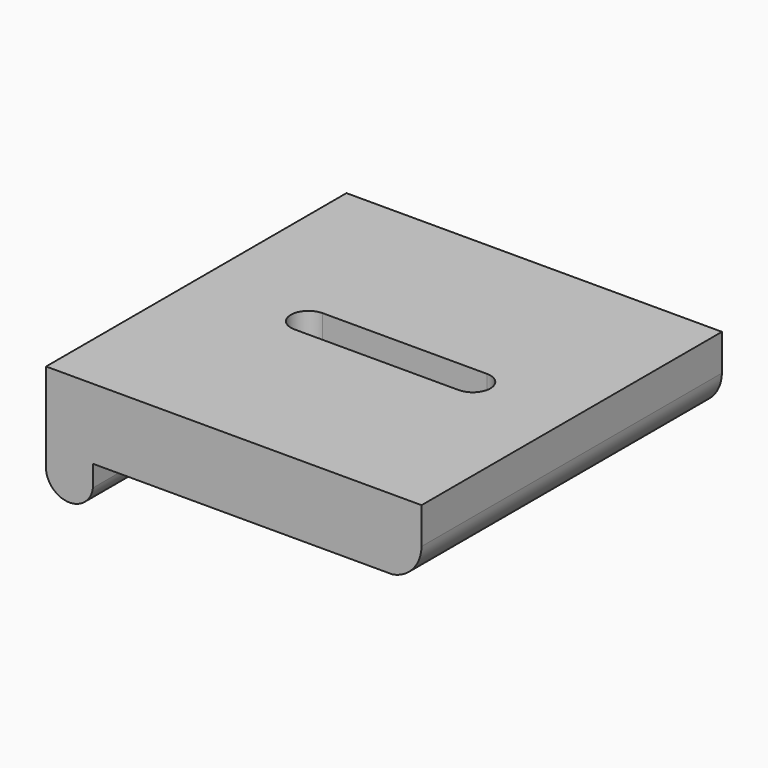
from build123d import *

# Parameters (mm, degrees)
F0_W     = 101.6
F0_H     = 101.6
F1_DEPTH = 19.05
F2_W     = 12.7
F2_H     = 101.6
F3_DEPTH = 11.43
F5_DEPTH = 101.601
F6_DEPTH = 101.601


with BuildPart() as f1:
    # F0 (on Top) → F1 (new body)
    with BuildSketch(Plane.XY):
        with Locations((-50.5425002087, 14.2971096218)):
            Rectangle(F0_W, F0_H)
        with BuildLine():
            ThreePointArc((-70.9710493684, 9.5346096218), (-75.7335493684, 14.2971096218), (-70.9710493684, 19.0596096218))
            Line((-70.9710493684, 19.0596096218), (-26.5210493684, 19.0596096218))
            ThreePointArc((-26.5210493684, 19.0596096218), (-21.7585493684, 14.2971096218), (-26.5210493684, 9.5346096218))
            Line((-26.5210493684, 9.5346096218), (-70.9710493684, 9.5346096218))
        make_face(mode=Mode.SUBTRACT)
    extrude(amount=F1_DEPTH)

    # F2 (on face) → F3 (join)
    with BuildSketch(Plane(origin=(0, 0, 0), x_dir=(1, 0, 0), z_dir=(0, 0, -1))):
        with Locations((-94.9925002087, -14.2971096218)):
            Rectangle(F2_W, F2_H)
    extrude(amount=F3_DEPTH)

    # F4 (on face) → F5 (cut, through all)
    with BuildSketch(Plane.XZ.offset(36.5028903782)):
        with BuildLine():
            ThreePointArc((0.2574997913, 9.2125750211), (-1.9847896018, 3.2247694582), (-7.5058890507, 0))
            Line((-7.5058890507, 0), (0.2574997913, 0))
            Line((0.2574997913, 0), (0.2574997913, 9.2125750211))
        make_face()
    extrude(amount=-F5_DEPTH, mode=Mode.SUBTRACT)

    # F4 (on face) → F6 (cut, through all)
    with BuildSketch(Plane.XZ.offset(36.5028903782)):
        with BuildLine():
            Line((-88.6425002087, -11.43), (-88.6425002087, -5.715))
            ThreePointArc((-88.6425002087, -5.715), (-95.0047463509, -11.2975338614), (-101.3425002087, -5.6872097775))
            Line((-101.3425002087, -5.6872097775), (-101.3425002087, -11.43))
            Line((-101.3425002087, -11.43), (-88.6425002087, -11.43))
        make_face()
    extrude(amount=-F6_DEPTH, mode=Mode.SUBTRACT)


solid = f1.part
